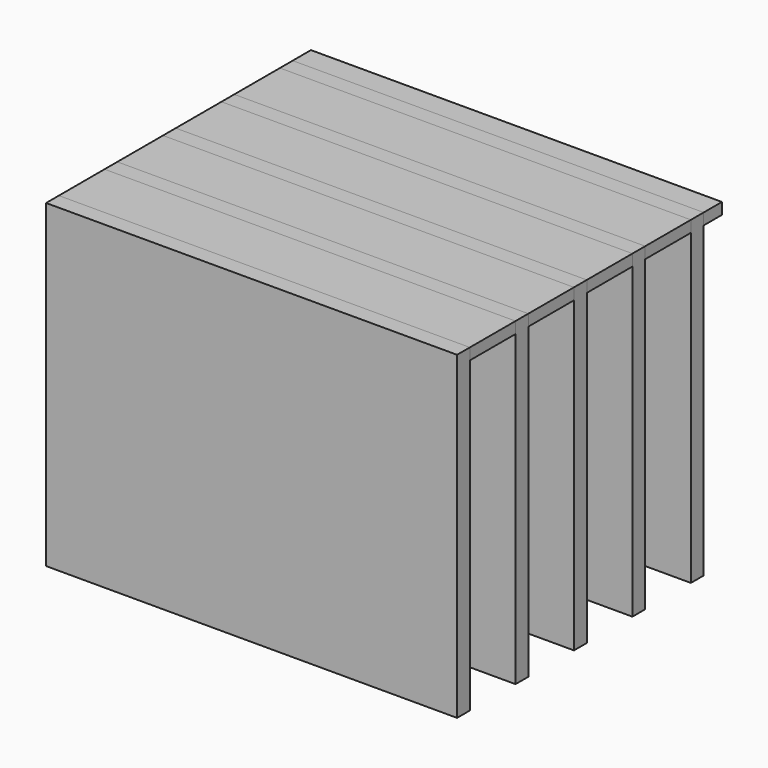
from build123d import *

# Parameters (mm, degrees)
F0_W     = 180
F0_H     = 25
F0_H_2   = 10
F1_DEPTH = 5
F0_H_3   = 7
F2_DEPTH = 140


with BuildPart() as f1:
    # F0 (on Top) → F1 (new body)
    with BuildSketch(Plane.XY):
        with Locations((17.500004, 43.496153)):
            Rectangle(F0_W, F0_H)
        with Locations((17.500004, 67.996153)):
            Rectangle(F0_W, F0_H_2)
        with Locations((17.500004, 11.496153)):
            Rectangle(F0_W, F0_H)
        with Locations((17.500004, -20.503847)):
            Rectangle(F0_W, F0_H)
        with Locations((17.500004, -52.503847)):
            Rectangle(F0_W, F0_H)
    extrude(amount=-F1_DEPTH)


with BuildPart() as f2:
    # F0 (on Top) → F2 (new body)
    with BuildSketch(Plane.XY):
        with Locations((17.500004, -36.503847)):
            Rectangle(F0_W, F0_H_3)
        with Locations((17.500004, -4.503847)):
            Rectangle(F0_W, F0_H_3)
        with Locations((17.500004, 27.496153)):
            Rectangle(F0_W, F0_H_3)
        with Locations((17.500004, 59.496153)):
            Rectangle(F0_W, F0_H_3)
        with Locations((17.500004, -68.503847)):
            Rectangle(F0_W, F0_H_3)
    extrude(amount=-F2_DEPTH)


solid = Compound([f1.part, f2.part])
